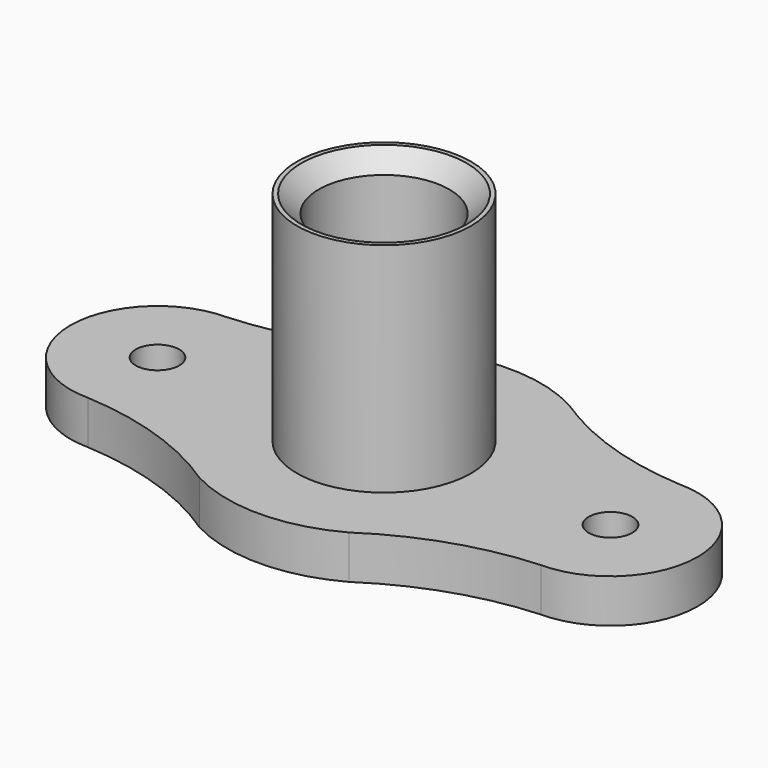
from build123d import *

# Parameters (mm, degrees)
F0_R     = 6.35
F1_DEPTH = 12.7
F2_R     = 25.4
F2_R_2   = 19.05
F3_DEPTH = 76.2
F4_SIZE  = 5.08


with BuildPart() as f1:
    # F0 (on Top) → F1 (new body)
    with BuildSketch(Plane.XY):
        with BuildLine():
            ThreePointArc((-66.04, -25.4), (-42.772685, -29.877305), (-21.514457, -40.341623))
            ThreePointArc((-21.514457, -40.341623), (0.226525, -45.719439), (21.913151, -40.126453))
            ThreePointArc((21.913151, -40.126453), (42.996249, -29.825744), (66.04, -25.4))
            ThreePointArc((66.04, -25.4), (91.44, 0), (66.04, 25.4))
            ThreePointArc((66.04, 25.4), (42.996249, 29.825744), (21.913151, 40.126453))
            ThreePointArc((21.913151, 40.126453), (0.226525, 45.719439), (-21.514457, 40.341623))
            ThreePointArc((-21.514457, 40.341623), (-42.772685, 29.877305), (-66.04, 25.4))
            ThreePointArc((-66.04, 25.4), (-91.44, 0), (-66.04, -25.4))
        make_face()
        with Locations((-66.04, 0)):
            Circle(F0_R, mode=Mode.SUBTRACT)
        with Locations((66.04, 0)):
            Circle(F0_R, mode=Mode.SUBTRACT)
    extrude(amount=F1_DEPTH)

    # F2 (on Top) → F3 (join)
    with BuildSketch(Plane.XY):
        Circle(F2_R)
        Circle(F2_R_2, mode=Mode.SUBTRACT)
    extrude(amount=F3_DEPTH)

    # F4
    f4_edges = [f1.edges().sort_by_distance(p)[0] for p in [
        (-19.05, 0, 76.2),
    ]]
    chamfer(f4_edges, length=F4_SIZE)


solid = f1.part
